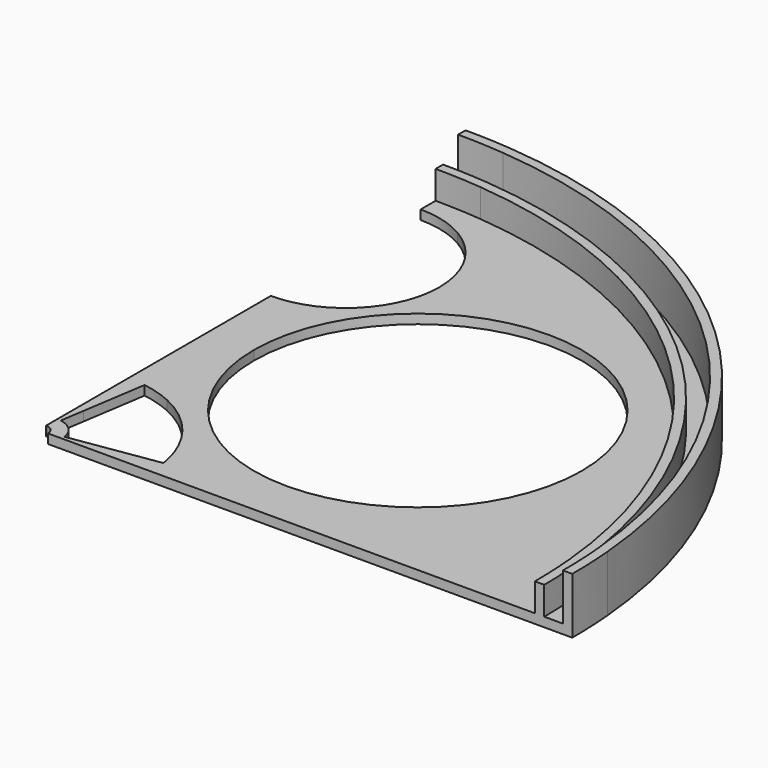
from build123d import *

# Parameters (mm, degrees)
F1_DEPTH = 2.54
F2_DEPTH = 10.16
F3_DEPTH = 2.54
F4_DEPTH = 15.24


with BuildPart() as f1:
    # F0 (on Top) → F1 (new body)
    with BuildSketch(Plane.XY):
        with BuildLine():
            Line((4.6571345698, 30.12210978), (12.7, 82.1429547439))
            ThreePointArc((12.7, 82.1429547439), (6.5740037456, 79.6054840123), (0, 78.74))
            Line((0, 78.74), (0, 30.48))
            ThreePointArc((0, 30.48), (2.3354329262, 30.3903957369), (4.6571345698, 30.12210978))
        make_face()
        with BuildLine():
            Line((12.7, 57.15), (12.7, 82.1429547439))
            Line((12.7, 82.1429547439), (4.6571345698, 30.12210978))
            ThreePointArc((4.6571345698, 30.12210978), (8.7620977053, 29.1934246673), (12.7, 27.7081287712))
            Line((12.7, 27.7081287712), (12.7, 57.15))
        make_face()
        with BuildLine():
            Line((1.9635281017, 12.7), (4.6571345698, 30.12210978))
            ThreePointArc((4.6571345698, 30.12210978), (2.3354329262, 30.3903957369), (0, 30.48))
            Line((0, 30.48), (0, 12.7))
            Line((0, 12.7), (1.9635281017, 12.7))
        make_face()
        with BuildLine():
            Line((0.9702363687, 6.2754395375), (1.9635281017, 12.7))
            Line((1.9635281017, 12.7), (0, 12.7))
            Line((0, 12.7), (0, 6.35))
            ThreePointArc((0, 6.35), (0.4865485263, 6.3313324452), (0.9702363687, 6.2754395375))
        make_face()
        with BuildLine():
            Line((0.3880945475, 2.510175815), (0.9702363687, 6.2754395375))
            ThreePointArc((0.9702363687, 6.2754395375), (0.4865485263, 6.3313324452), (0, 6.35))
            Line((0, 6.35), (0, 2.54))
            ThreePointArc((0, 2.54), (0.1946194105, 2.5325329781), (0.3880945475, 2.510175815))
        make_face()
        with BuildLine():
            Line((2.510175815, 0.3880945475), (6.2754395375, 0.9702363687))
            ThreePointArc((6.2754395375, 0.9702363687), (4.4901280605, 4.4901280605), (0.9702363687, 6.2754395375))
            Line((0.9702363687, 6.2754395375), (0.3880945475, 2.510175815))
            ThreePointArc((0.3880945475, 2.510175815), (1.7960512242, 1.7960512242), (2.510175815, 0.3880945475))
        make_face()
        with BuildLine():
            Line((2.54, 0), (6.35, 0))
            ThreePointArc((6.35, 0), (6.3313324452, 0.4865485263), (6.2754395375, 0.9702363687))
            Line((6.2754395375, 0.9702363687), (2.510175815, 0.3880945475))
            ThreePointArc((2.510175815, 0.3880945475), (2.5325329781, 0.1946194105), (2.54, 0))
        make_face()
        with BuildLine():
            Line((6.35, 0), (12.7, 0))
            Line((12.7, 0), (12.7, 1.9635281017))
            Line((12.7, 1.9635281017), (6.2754395375, 0.9702363687))
            ThreePointArc((6.2754395375, 0.9702363687), (6.3313324452, 0.4865485263), (6.35, 0))
        make_face()
        with BuildLine():
            Line((12.7, 0), (30.48, 0))
            ThreePointArc((30.48, 0), (30.3903957369, 2.3354329262), (30.12210978, 4.6571345698))
            Line((30.12210978, 4.6571345698), (12.7, 1.9635281017))
            Line((12.7, 1.9635281017), (12.7, 0))
        make_face()
        with BuildLine():
            Line((30.48, 0), (78.74, 0))
            ThreePointArc((78.74, 0), (79.6054840123, 6.5740037456), (82.1429547439, 12.7))
            Line((82.1429547439, 12.7), (30.12210978, 4.6571345698))
            ThreePointArc((30.12210978, 4.6571345698), (30.3903957369, 2.3354329262), (30.48, 0))
        make_face()
        with BuildLine():
            Line((27.7081287712, 12.7), (57.15, 12.7))
            ThreePointArc((57.15, 12.7), (25.7191035763, 25.7191035763), (12.7, 57.15))
            Line((12.7, 57.15), (12.7, 27.7081287712))
            ThreePointArc((12.7, 27.7081287712), (21.5526146906, 21.5526146906), (27.7081287712, 12.7))
        make_face()
        with BuildLine():
            Line((30.12210978, 4.6571345698), (82.1429547439, 12.7))
            Line((82.1429547439, 12.7), (57.15, 12.7))
            Line((57.15, 12.7), (27.7081287712, 12.7))
            ThreePointArc((27.7081287712, 12.7), (29.1934246673, 8.7620977053), (30.12210978, 4.6571345698))
        make_face()
        with BuildLine():
            Line((126.1370452561, 12.7), (134.0196045361, 12.7))
            ThreePointArc((134.0196045361, 12.7), (95.1907148833, 95.1907148833), (12.7, 134.0196045361))
            Line((12.7, 134.0196045361), (12.7, 126.1370452561))
            ThreePointArc((12.7, 126.1370452561), (21.9970452561, 116.84), (25.4, 104.14))
            ThreePointArc((25.4, 104.14), (21.9970452561, 91.44), (12.7, 82.1429547439))
            Line((12.7, 82.1429547439), (12.7, 57.15))
            ThreePointArc((12.7, 57.15), (57.15, 101.6), (101.6, 57.15))
            ThreePointArc((101.6, 57.15), (88.5808964237, 25.7191035763), (57.15, 12.7))
            Line((57.15, 12.7), (82.1429547439, 12.7))
            ThreePointArc((82.1429547439, 12.7), (104.14, 25.4), (126.1370452561, 12.7))
        make_face()
        with BuildLine():
            Line((129.54, 0), (134.62, 0))
            ThreePointArc((134.62, 0), (134.4698173618, 6.3570919986), (134.0196045361, 12.7))
            Line((134.0196045361, 12.7), (126.1370452561, 12.7))
            ThreePointArc((126.1370452561, 12.7), (128.6745159877, 6.5740037456), (129.54, 0))
        make_face()
        with BuildLine():
            Line((12.7, 126.1370452561), (12.7, 134.0196045361))
            ThreePointArc((12.7, 134.0196045361), (6.3570919986, 134.4698173618), (0, 134.62))
            Line((0, 134.62), (0, 129.54))
            ThreePointArc((0, 129.54), (6.5740037456, 128.6745159877), (12.7, 126.1370452561))
        make_face()
        with BuildLine():
            Line((82.1429547439, 12.7), (126.1370452561, 12.7))
            ThreePointArc((126.1370452561, 12.7), (104.14, 25.4), (82.1429547439, 12.7))
        make_face()
        with BuildLine():
            Line((78.74, 0), (129.54, 0))
            ThreePointArc((129.54, 0), (128.6745159877, 6.5740037456), (126.1370452561, 12.7))
            Line((126.1370452561, 12.7), (82.1429547439, 12.7))
            ThreePointArc((82.1429547439, 12.7), (79.6054840123, 6.5740037456), (78.74, 0))
        make_face()
    extrude(amount=F1_DEPTH)

    # F0 (on Top) → F2 (join)
    with BuildSketch(Plane.XY):
        with BuildLine():
            ThreePointArc((134.0196045361, 12.7), (134.4698173618, 6.3570919986), (134.62, 0))
            Line((134.62, 0), (137.16, 0))
            ThreePointArc((137.16, 0), (137.0126136617, 6.3568307817), (136.5707713971, 12.7))
            Line((136.5707713971, 12.7), (134.0196045361, 12.7))
        make_face()
        with BuildLine():
            ThreePointArc((12.7, 134.0196045361), (95.1907148833, 95.1907148833), (134.0196045361, 12.7))
            Line((134.0196045361, 12.7), (136.5707713971, 12.7))
            ThreePointArc((136.5707713971, 12.7), (96.9867661075, 96.9867661075), (12.7, 136.5707713971))
            Line((12.7, 136.5707713971), (12.7, 134.0196045361))
        make_face()
        with BuildLine():
            ThreePointArc((0, 134.62), (6.3570919986, 134.4698173618), (12.7, 134.0196045361))
            Line((12.7, 134.0196045361), (12.7, 136.5707713971))
            ThreePointArc((12.7, 136.5707713971), (6.3568307817, 137.0126136617), (0, 137.16))
            Line((0, 137.16), (0, 134.62))
        make_face()
    extrude(amount=F2_DEPTH)

    # F0 (on Top) → F3 (join)
    with BuildSketch(Plane.XY):
        with BuildLine():
            ThreePointArc((136.5707713971, 12.7), (137.0126136617, 6.3568307817), (137.16, 0))
            Line((137.16, 0), (142.24, 0))
            ThreePointArc((142.24, 0), (142.0979043334, 6.3563499), (141.6719012366, 12.7))
            Line((141.6719012366, 12.7), (136.5707713971, 12.7))
        make_face()
        with BuildLine():
            ThreePointArc((12.7, 136.5707713971), (96.9867661075, 96.9867661075), (136.5707713971, 12.7))
            Line((136.5707713971, 12.7), (141.6719012366, 12.7))
            ThreePointArc((141.6719012366, 12.7), (100.578868556, 100.578868556), (12.7, 141.6719012366))
            Line((12.7, 141.6719012366), (12.7, 136.5707713971))
        make_face()
        with BuildLine():
            ThreePointArc((0, 137.16), (6.3568307817, 137.0126136617), (12.7, 136.5707713971))
            Line((12.7, 136.5707713971), (12.7, 141.6719012366))
            ThreePointArc((12.7, 141.6719012366), (6.3563499, 142.0979043334), (0, 142.24))
            Line((0, 142.24), (0, 137.16))
        make_face()
    extrude(amount=F3_DEPTH)

    # F0 (on Top) → F4 (join)
    with BuildSketch(Plane.XY):
        with BuildLine():
            ThreePointArc((12.7, 141.6719012366), (100.578868556, 100.578868556), (141.6719012366, 12.7))
            Line((141.6719012366, 12.7), (144.2219067964, 12.7))
            ThreePointArc((144.2219067964, 12.7), (102.3749197802, 102.3749197802), (12.7, 144.2219067964))
            Line((12.7, 144.2219067964), (12.7, 141.6719012366))
        make_face()
        with BuildLine():
            ThreePointArc((0, 142.24), (6.3563499, 142.0979043334), (12.7, 141.6719012366))
            Line((12.7, 141.6719012366), (12.7, 144.2219067964))
            ThreePointArc((12.7, 144.2219067964), (6.3561283031, 144.6404094055), (0, 144.78))
            Line((0, 144.78), (0, 142.24))
        make_face()
        with BuildLine():
            ThreePointArc((141.6719012366, 12.7), (142.0979043334, 6.3563499), (142.24, 0))
            Line((142.24, 0), (144.78, 0))
            ThreePointArc((144.78, 0), (144.6404094055, 6.3561283031), (144.2219067964, 12.7))
            Line((144.2219067964, 12.7), (141.6719012366, 12.7))
        make_face()
    extrude(amount=F4_DEPTH)


solid = f1.part
